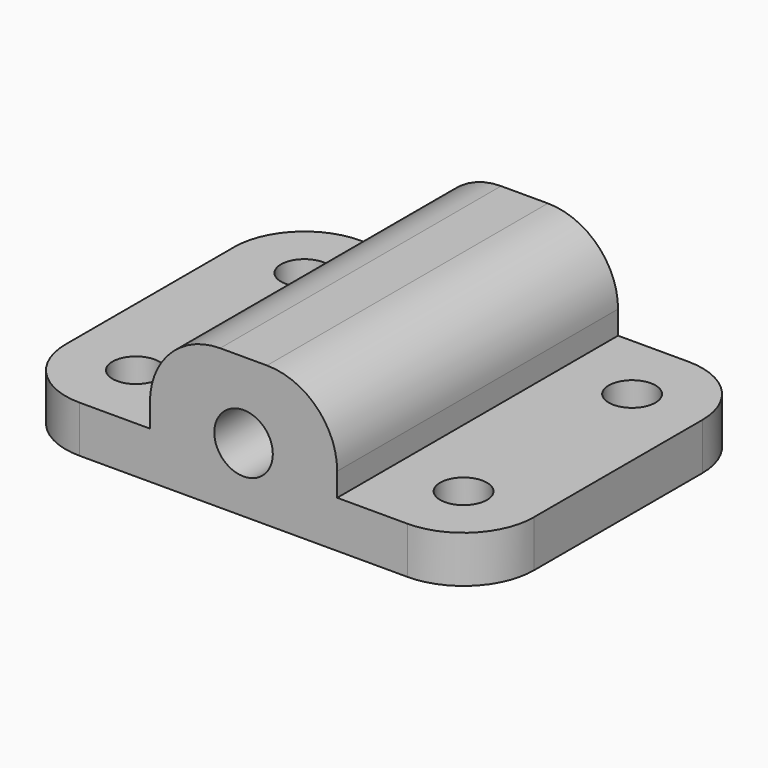
from build123d import *

# Parameters (mm, degrees)
F0_W     = 20
F0_H     = 15
F1_DEPTH = 2
F2_W     = 8
F2_H     = 15
F3_DEPTH = 4
F4_R     = 1.25
F5_DEPTH = 15.001
F6_R     = 1
F7_DEPTH = 25
F8_R     = 3


with BuildPart() as f1:
    # F0 (on Top) → F1 (new body)
    with BuildSketch(Plane.XY):
        Rectangle(F0_W, F0_H)
    extrude(amount=F1_DEPTH)

    # F2 (on face) → F3 (join)
    with BuildSketch(Plane.XY.offset(2)):
        Rectangle(F2_W, F2_H)
    extrude(amount=F3_DEPTH)

    # F4 (on face) → F5 (cut, through all)
    with BuildSketch(Plane.XZ.offset(7.5)):
        with Locations((0, 2.75)):
            Circle(F4_R)
    extrude(amount=-F5_DEPTH, mode=Mode.SUBTRACT)

    # F6 (on face) → F7 (cut)
    with BuildSketch(Plane(origin=(0, 0, 0), x_dir=(1, 0, 0), z_dir=(0, 0, -1))):
        with Locations((-7, 4.5)):
            Circle(F6_R)
        with Locations((7, 4.5)):
            Circle(F6_R)
        with Locations((7, -4.5)):
            Circle(F6_R)
        with Locations((-7, -4.5)):
            Circle(F6_R)
    extrude(amount=-F7_DEPTH, mode=Mode.SUBTRACT)

    # F8
    f8_edges = [f1.edges().sort_by_distance(p)[0] for p in [
        (4, 0, 6),
        (-4, 0, 6),
        (10, -7.5, 1),
        (10, 7.5, 1),
        (-10, -7.5, 1),
        (-10, 7.5, 1),
    ]]
    fillet(f8_edges, radius=F8_R)


solid = f1.part
